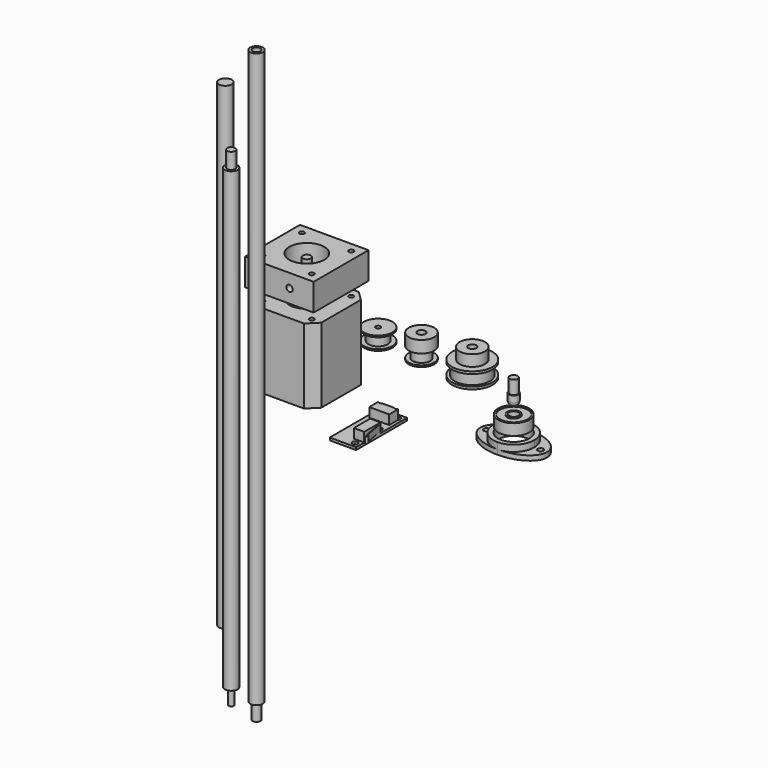
from build123d import *

# Parameters (mm, degrees)
F0_W      = 43
F0_H      = 43
F0_R      = 1.5
F1_DEPTH  = 47
F2_R      = 2.5
F3_DEPTH  = 23
F2_R_2    = 11
F4_DEPTH  = 1
F5_SIZE   = 6
F6_DEPTH  = 50
F7_R      = 9
F7_R_2    = 6.1
F8_DEPTH  = 1
F7_R_3    = 1.5
F9_DEPTH  = 8.5
F10_START = 7.5
F10_DEPTH = 1
F11_R     = 8
F11_R_2   = 5.5
F12_DEPTH = 1
F11_R_3   = 2.5
F13_DEPTH = 15
F14_START = 7.5
F14_DEPTH = 7.5
F15_START = 8
F2_W      = 43
F2_H      = 43
F2_R_3    = 1.5
F15_DEPTH = 17
F16_R     = 2
F17_DEPTH = 50
F18_R     = 9.5
F18_R_2   = 2.5
F19_DEPTH = 25
F20_R     = 4
F21_DEPTH = 150
F23_DEPTH = 7.5
F22_W     = 6.5
F22_H     = 12.8
F22_R     = 1.75
F24_DEPTH = 1.6
F26_START = 1
F26_DEPTH = 4
F33_R     = 9.9
F34_DEPTH = 7
F33_R_2   = 1.75
F35_DEPTH = 3


with BuildPart() as f1:
    # F0 (on Top) → F1 (new body)
    with BuildSketch(Plane.XY):
        Rectangle(F0_W, F0_H)
        with Locations((-15.5, -15.5)):
            Circle(F0_R, mode=Mode.SUBTRACT)
        with Locations((15.5, -15.5)):
            Circle(F0_R, mode=Mode.SUBTRACT)
        with Locations((-15.5, 15.5)):
            Circle(F0_R, mode=Mode.SUBTRACT)
        with Locations((15.5, 15.5)):
            Circle(F0_R, mode=Mode.SUBTRACT)
    extrude(amount=F1_DEPTH)

    # F2 (on face) → F3 (join)
    with BuildSketch(Plane.XY.offset(47)):
        Circle(F2_R)
    extrude(amount=F3_DEPTH)

    # F2 (on face) → F4 (join)
    with BuildSketch(Plane.XY.offset(47)):
        Circle(F2_R_2)
        Circle(F2_R, mode=Mode.SUBTRACT)
    extrude(amount=F4_DEPTH)

    # F5
    f5_edges = [f1.edges().sort_by_distance(p)[0] for p in [
        (21.5, -21.5, 23.5),
        (-21.5, -21.5, 23.5),
        (-21.5, 21.5, 23.5),
        (21.5, 21.5, 23.5),
    ]]
    chamfer(f5_edges, length=F5_SIZE)

    # F0 (on Top) → F6 (cut)
    with BuildSketch(Plane.XY):
        with Locations((-15.5, 15.5)):
            Circle(F0_R)
        with Locations((15.5, 15.5)):
            Circle(F0_R)
        with Locations((15.5, -15.5)):
            Circle(F0_R)
        with Locations((-15.5, -15.5)):
            Circle(F0_R)
    extrude(amount=F6_DEPTH, mode=Mode.SUBTRACT)


with BuildPart() as f8:
    # F7 (on Top) → F8 (new body)
    with BuildSketch(Plane.XY):
        with Locations((0, 55.9539496899)):
            Circle(F7_R)
        with Locations((0, 55.9539496899)):
            Circle(F7_R_2, mode=Mode.SUBTRACT)
    extrude(amount=F8_DEPTH)

    # F7 (on Top) → F9 (join)
    with BuildSketch(Plane.XY):
        with Locations((0, 55.9539496899)):
            Circle(F7_R_2)
        with Locations((0, 55.9539496899)):
            Circle(F7_R_3, mode=Mode.SUBTRACT)
    extrude(amount=F9_DEPTH)

    # F7 (on Top) → F10 (join)
    with BuildSketch(Plane.XY.offset(F10_START)):
        with Locations((0, 55.9539496899)):
            Circle(F7_R)
        with Locations((0, 55.9539496899)):
            Circle(F7_R_2, mode=Mode.SUBTRACT)
    extrude(amount=F10_DEPTH)


with BuildPart() as f12:
    # F11 (on Top) → F12 (new body)
    with BuildSketch(Plane.XY):
        with Locations((27.9319211841, 55.0529174507)):
            Circle(F11_R)
        with Locations((27.9319211841, 55.0529174507)):
            Circle(F11_R_2, mode=Mode.SUBTRACT)
    extrude(amount=F12_DEPTH)

    # F11 (on Top) → F13 (join)
    with BuildSketch(Plane.XY):
        with Locations((27.9319211841, 55.0529174507)):
            Circle(F11_R_2)
        with Locations((27.9319211841, 55.0529174507)):
            Circle(F11_R_3, mode=Mode.SUBTRACT)
    extrude(amount=F13_DEPTH)

    # F11 (on Top) → F14 (join)
    with BuildSketch(Plane.XY.offset(F14_START)):
        with Locations((27.9319211841, 55.0529174507)):
            Circle(F11_R)
        with Locations((27.9319211841, 55.0529174507)):
            Circle(F11_R_2, mode=Mode.SUBTRACT)
    extrude(amount=F14_DEPTH)


with BuildPart() as f15:
    # F2 (on face) → F15 (new body)
    with BuildSketch(Plane.XY.offset(47).offset(F15_START)):
        Rectangle(F2_W, F2_H)
        with Locations((-15.5, -15.5)):
            Circle(F2_R_3, mode=Mode.SUBTRACT)
        with Locations((15.5, -15.5)):
            Circle(F2_R_3, mode=Mode.SUBTRACT)
        with Locations((-15.5, 15.5)):
            Circle(F2_R_3, mode=Mode.SUBTRACT)
        Circle(F2_R_2, mode=Mode.SUBTRACT)
        with Locations((15.5, 15.5)):
            Circle(F2_R_3, mode=Mode.SUBTRACT)
    extrude(amount=F15_DEPTH)

    # F16 (on face) → F17 (cut)
    with BuildSketch(Plane.XZ.offset(21.5)):
        with Locations((6.3905180432, 63.5)):
            Circle(F16_R)
    extrude(amount=-F17_DEPTH, mode=Mode.SUBTRACT)


with BuildPart() as f19:
    # F18 (on Top) → F19 (new body)
    with BuildSketch(Plane.XY):
        with Locations((-36.1312925816, 57.0351853967)):
            Circle(F18_R)
        with Locations((-36.1312925816, 57.0351853967)):
            Circle(F18_R_2, mode=Mode.SUBTRACT)
    extrude(amount=F19_DEPTH)


with BuildPart() as f21:
    # F20 (on Top) → F21 (new body, symmetric)
    with BuildSketch(Plane.XY):
        with Locations((-51.1315862642, 0)):
            Circle(F20_R)
    extrude(amount=F21_DEPTH, both=True)


with BuildPart() as f23:
    # F22 (on Top) → F23 (new body)
    with BuildSketch(Plane.XY):
        with BuildLine():
            ThreePointArc((50.8817925306, -4.5), (49.6570476592, -5), (48.4323027878, -4.5))
            Line((48.4323027878, -4.5), (48.4070476592, -4.5))
            Line((48.4070476592, -4.5), (48.4070476592, -11.5))
            Line((48.4070476592, -11.5), (60.9070476592, -11.5))
            Line((60.9070476592, -11.5), (60.9070476592, -4.5))
            Line((60.9070476592, -4.5), (60.8817925306, -4.5))
            ThreePointArc((60.8817925306, -4.5), (59.6570476592, -5), (58.4323027878, -4.5))
            Line((58.4323027878, -4.5), (50.8817925306, -4.5))
        make_face()
    extrude(amount=F23_DEPTH)



with BuildPart() as f23b:
    # F22 (on Top) → F23, piece 2 (new body)
    with BuildSketch(Plane.XY):
        with Locations((59.6570476592, -27.2)):
            Rectangle(F22_W, F22_H)
    extrude(amount=F23_DEPTH)


with BuildPart() as f23_1:
    add(f23.part)

    add(f23b.part)  # F24 merges F23b
    # F22 (on Top) → F24 (join)
    with BuildSketch(Plane.XY):
        Polygon((46.4070476592, 0), (46.4070476592, -40), (62.9070476592, -40), (62.9070476592, -33.6), (56.4070476592, -33.6), (56.4070476592, -20.8), (62.9070476592, -20.8), (62.9070476592, 0), align=None)
        with Locations((59.6570476592, -36.75)):
            Circle(F22_R, mode=Mode.SUBTRACT)
        with BuildLine():
            ThreePointArc((48.4323027878, -4.5), (48.9791109088, -1.6366489029), (51.4070476592, -3.25))
            ThreePointArc((51.4070476592, -3.25), (51.2703987562, -3.9279367504), (50.8817925306, -4.5))
            Line((50.8817925306, -4.5), (58.4323027878, -4.5))
            ThreePointArc((58.4323027878, -4.5), (58.9791109088, -1.6366489029), (61.4070476592, -3.25))
            ThreePointArc((61.4070476592, -3.25), (61.2703987562, -3.9279367504), (60.8817925306, -4.5))
            Line((60.8817925306, -4.5), (60.9070476592, -4.5))
            Line((60.9070476592, -4.5), (60.9070476592, -11.5))
            Line((60.9070476592, -11.5), (48.4070476592, -11.5))
            Line((48.4070476592, -11.5), (48.4070476592, -4.5))
            Line((48.4070476592, -4.5), (48.4323027878, -4.5))
        make_face(mode=Mode.SUBTRACT)
        with Locations((59.6570476592, -17.75)):
            Circle(F22_R, mode=Mode.SUBTRACT)
    extrude(amount=F24_DEPTH)

    # F25 (on face) → F26 (join)
    with BuildSketch(Plane.XY.offset(1.6).offset(F26_START)):
        with BuildLine():
            Line((64.9973675609, -33.284612), (62.9070476592, -21.3473550975))
            Line((62.9070476592, -21.3473550975), (62.5630129172, -21.4703584832))
            Line((62.5630129172, -21.4703584832), (64.6870210767, -33.6))
            ThreePointArc((64.6870210767, -33.6), (65.7217323666, -34.531224736), (64.9973675609, -35.7199646533))
            Line((64.9973675609, -35.7199646533), (65.2352496982, -36.0302627087))
            ThreePointArc((65.2352496982, -36.0302627087), (66.1361976774, -34.5690745536), (64.9973675609, -33.284612))
        make_face()
    extrude(amount=F26_DEPTH)


with BuildPart() as f29:
    # F28 (on offset) → F29 (revolve)
    with BuildSketch(Plane.XZ.offset(-55.8)):
        Polygon((61.7012181878, 17), (61.7012181878, 0), (71.9512181878, 0), (71.9512181878, 1.5), (70.2012181878, 1.5), (70.2012181878, 8.5), (71.9512181878, 8.5), (71.9512181878, 10), (67.2012181878, 10), (67.2012181878, 17), align=None)
    revolve(axis=Axis((59.2012181878, 55.8, 8.5), (0, 0, 1)))


with BuildPart() as f30:
    # F28 (on offset) → F30 (revolve)
    with BuildSketch(Plane.XZ.offset(-55.8)):
        with BuildLine():
            Line((88.2024182677, -4), (88.2024182677, 0))
            Line((88.2024182677, 0), (87.7024182677, 0))
            Line((87.7024182677, 0), (87.7024182677, 8.5))
            Line((87.7024182677, 8.5), (85.2024182677, 8.5))
            Line((85.2024182677, 8.5), (85.2024182677, -7))
            ThreePointArc((85.2024182677, -7), (87.3237386113, -6.1213203436), (88.2024182677, -4))
        make_face()
    revolve(axis=Axis((85.2024182677, 55.8, 0.75), (0, 0, -1)))


with BuildPart() as f31:
    # F28 (on offset) → F31 (revolve)
    with BuildSketch(Plane.XZ.offset(-55.8)):
        Polygon((89.2024182677, -11.774503842), (88.2024182677, -11.774503842), (88.2024182677, -18.774503842), (89.2024182677, -18.774503842), (89.2024182677, -18.274503842), (93.9524182677, -18.274503842), (93.9524182677, -18.774503842), (94.9524182677, -18.774503842), (94.9524182677, -11.774503842), (93.9524182677, -11.774503842), (93.9524182677, -12.274503842), (89.2024182677, -12.274503842), align=None)
    revolve(axis=Axis((85.2024182677, 55.8, -15.274503842), (0, 0, -1)))


with BuildPart() as f34:
    # F33 (on offset) → F34 (new body)
    with BuildSketch(Plane.XY.offset(-29)):
        with BuildLine():
            ThreePointArc((85.2024182677, 42.9), (94.324095745, 46.6783225227), (98.1024182677, 55.8))
            ThreePointArc((98.1024182677, 55.8), (94.324095745, 64.9216774773), (85.2024182677, 68.7))
            ThreePointArc((85.2024182677, 68.7), (72.3024182677, 55.8), (85.2024182677, 42.9))
        make_face()
        with Locations((85.2024182677, 55.8)):
            Circle(F33_R, mode=Mode.SUBTRACT)
    extrude(amount=F34_DEPTH)

    # F33 (on offset) → F35 (join)
    with BuildSketch(Plane.XY.offset(-29)):
        with BuildLine():
            ThreePointArc((85.2024182677, 68.7), (94.324095745, 64.9216774773), (98.1024182677, 55.8))
            ThreePointArc((98.1024182677, 55.8), (94.324095745, 46.6783225227), (85.2024182677, 42.9))
            add(Edge.make_bspline(
                [(85.2024182677, 42.9), (106.1024182677, 42.9), (106.1024182677, 55.8)],
                knots=[4.7123889804, 4.7123889804, 4.7123889804, 6.2831853072, 6.2831853072, 6.2831853072], degree=2, weights=[1, 0.7071067812, 1]))
            add(Edge.make_bspline(
                [(106.1024182677, 55.8), (106.1024182677, 68.7), (85.2024182677, 68.7)],
                knots=[0, 0, 0, 1.5707963268, 1.5707963268, 1.5707963268], degree=2, weights=[1, 0.7071067812, 1]))
        make_face()
        with Locations((102.1024182677, 55.8)):
            Circle(F33_R_2, mode=Mode.SUBTRACT)
        with BuildLine():
            ThreePointArc((85.2024182677, 42.9), (72.3024182677, 55.8), (85.2024182677, 68.7))
            add(Edge.make_bspline(
                [(85.2024182677, 68.7), (64.3024182677, 68.7), (64.3024182677, 55.8), (64.3024182677, 42.9), (85.2024182677, 42.9)],
                knots=[1.5707963268, 1.5707963268, 1.5707963268, 3.1415926536, 3.1415926536, 4.7123889804, 4.7123889804, 4.7123889804], degree=2, weights=[1, 0.7071067812, 1, 0.7071067812, 1]))
        make_face()
        with Locations((68.1024182677, 55.8)):
            Circle(F33_R_2, mode=Mode.SUBTRACT)
    extrude(amount=F35_DEPTH)


with BuildPart() as f37:
    # F36 (on Right) → F37 (revolve)
    with BuildSketch(Plane.YZ):
        Polygon((-56.7982917315, 153.5), (-59.2982917315, 153.5), (-59.2982917315, -153.5), (-57.7982895189, -153.5), (-57.7982895189, -143.5), (-55.2982917315, -143.5), (-55.2982917315, 0), (-55.2982917315, 143.5), (-56.7982917315, 143.5), align=None)
    revolve(axis=Axis((0, -59.2982917315, 0), (0, 0, -1)))


with BuildPart() as f38:
    # F36 (on Right) → F38 (revolve)
    with BuildSketch(Plane.YZ):
        Polygon((-39.451174438, 195.4618448019), (-39.451174438, -169.5381551981), (-36.951174438, -169.5381551981), (-36.951174438, -159.5381551981), (-35.451174438, -159.5381551981), (-35.451174438, 200.4618448019), (-36.951174438, 200.4618448019), (-36.951174438, 195.4618448019), align=None)
    revolve(axis=Axis((0, -39.451174438, 12.9618448019), (0, 0, 1)))


solid = Compound([f1.part, f8.part, f12.part, f15.part, f19.part, f21.part, f23_1.part, f29.part, f30.part, f31.part, f34.part, f37.part, f38.part])
